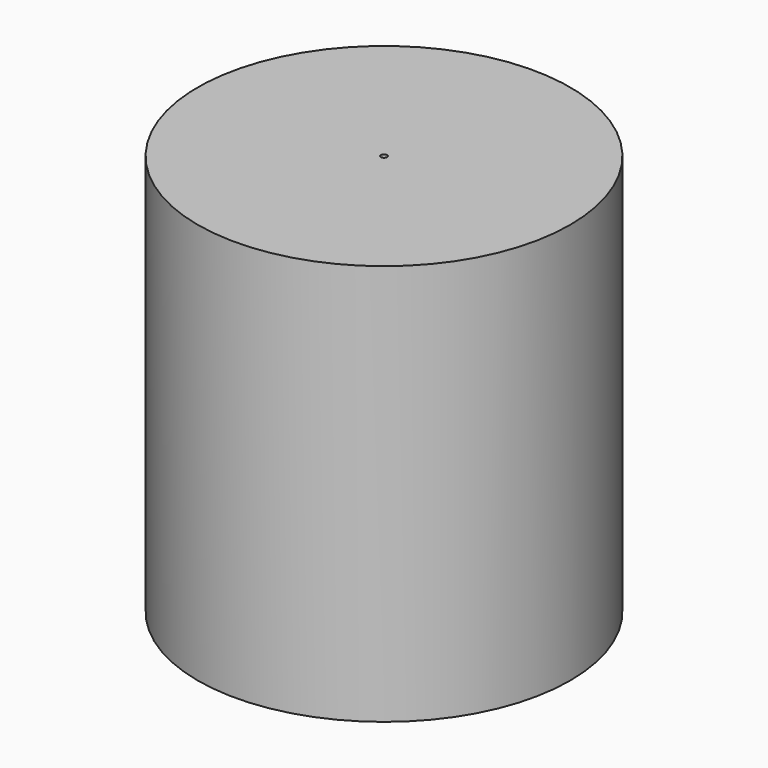
from build123d import *

# Parameters (mm, degrees)
F0_R     = 46.412224
F1_DEPTH = 100
F3_R     = 0.75
F4_DEPTH = 100.001


with BuildPart() as f1:
    # F0 (on Top) → F1 (new body)
    with BuildSketch(Plane.XY):
        Circle(F0_R)
    extrude(amount=F1_DEPTH)

    # F3 (on offset) → F4 (cut, through all)
    with BuildSketch(Plane.XY.offset(100)):
        Circle(F3_R)
    extrude(amount=-F4_DEPTH, mode=Mode.SUBTRACT)


solid = f1.part
